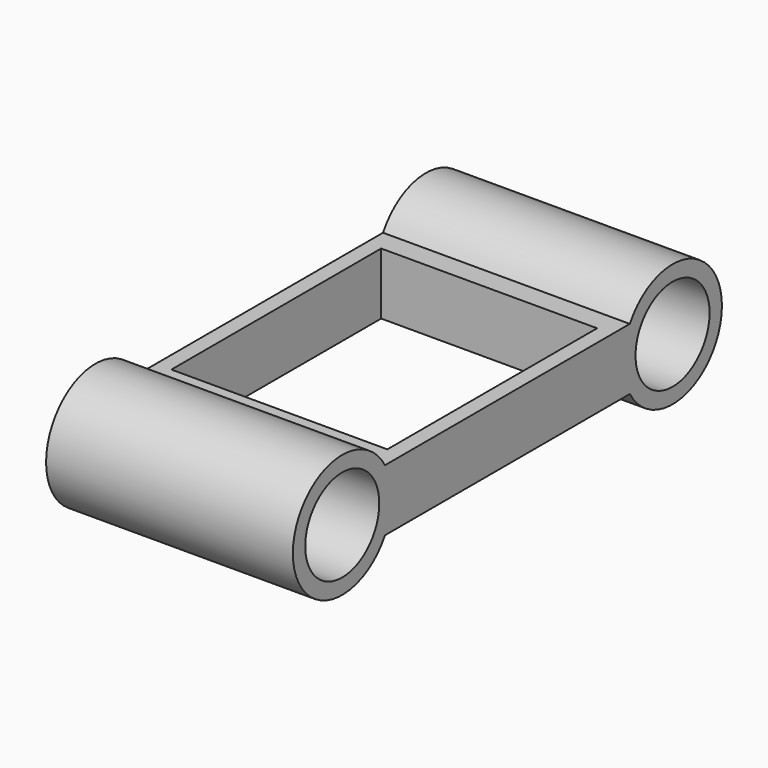
from build123d import *

# Parameters (mm, degrees)
F0_W     = 16
F0_H     = 20
F0_W_2   = 14
F0_H_2   = 17
F1_DEPTH = 4
F2_R     = 4
F3_DEPTH = 16
F4_R     = 3
F5_DEPTH = 16


with BuildPart() as f1:
    # F0 (on Top) → F1 (new body)
    with BuildSketch(Plane.XY):
        with Locations((-4.000824, -1.813023)):
            Rectangle(F0_W, F0_H)
        with Locations((-3.993993, -1.764975)):
            Rectangle(F0_W_2, F0_H_2, mode=Mode.SUBTRACT)
    extrude(amount=-F1_DEPTH)

    # F2 (on face) → F3 (join)
    with BuildSketch(Plane(origin=(-12.000824, 0, 0), x_dir=(0, -1, 0), z_dir=(-1, 0, 0))):
        with Locations((-11.607357, -2)):
            Circle(F2_R)
        with Locations((15.161447, -2)):
            Circle(F2_R)
    extrude(amount=-F3_DEPTH)

    # F4 (on face) → F5 (cut)
    with BuildSketch(Plane.YZ.offset(3.999176)):
        with Locations((-15.161447, -2)):
            Circle(F4_R)
        with Locations((11.607357, -2)):
            Circle(F4_R)
    extrude(amount=-F5_DEPTH, mode=Mode.SUBTRACT)


solid = f1.part
